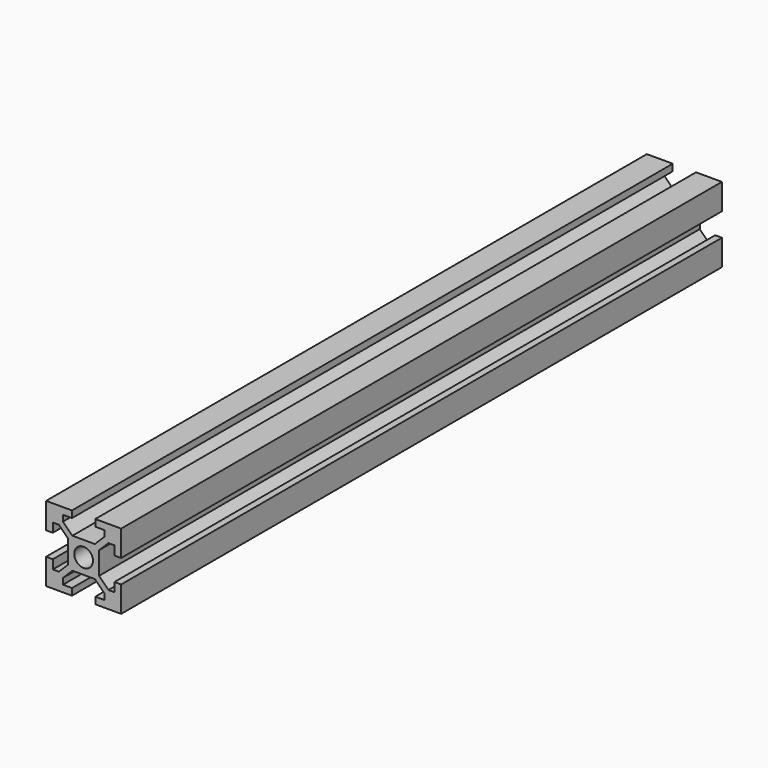
from build123d import *

# Parameters (mm, degrees)
F0_R     = 2.5
F1_DEPTH = 200


with BuildPart() as f1:
    # F0 (on Front) → F1 (new body)
    with BuildSketch(Plane.XZ):
        Polygon((-35.293996, 33.214715), (-42.193996, 33.214715), (-42.193996, 26.314715), (-40.393996, 26.314715), (-40.393996, 28.714715), (-38.793996, 28.714715), (-36.293996, 26.214715), (-36.293996, 20.214715), (-38.793996, 17.714715), (-40.393996, 17.714715), (-40.393996, 20.114715), (-42.193996, 20.114715), (-42.193996, 13.214715), (-35.293996, 13.214715), (-35.293996, 15.014715), (-37.693996, 15.014715), (-37.693996, 16.614715), (-35.193996, 19.114715), (-32.193996, 19.114715), (-29.193996, 19.114715), (-26.693996, 16.614715), (-26.693996, 15.014715), (-29.093996, 15.014715), (-29.093996, 13.214715), (-22.193996, 13.214715), (-22.193996, 20.114715), (-23.993996, 20.114715), (-23.993996, 17.714715), (-25.593996, 17.714715), (-28.093996, 20.214715), (-28.093996, 26.214715), (-25.593996, 28.714715), (-23.993996, 28.714715), (-23.993996, 26.314715), (-22.193996, 26.314715), (-22.193996, 33.214715), (-29.093996, 33.214715), (-29.093996, 31.414715), (-26.693996, 31.414715), (-26.693996, 29.814715), (-29.193996, 27.314715), (-32.193996, 27.314715), (-35.193996, 27.314715), (-37.693996, 29.814715), (-37.693996, 31.414715), (-35.293996, 31.414715), align=None)
        with Locations((-32.193996, 23.214715)):
            Circle(F0_R, mode=Mode.SUBTRACT)
    extrude(amount=F1_DEPTH)


solid = f1.part
